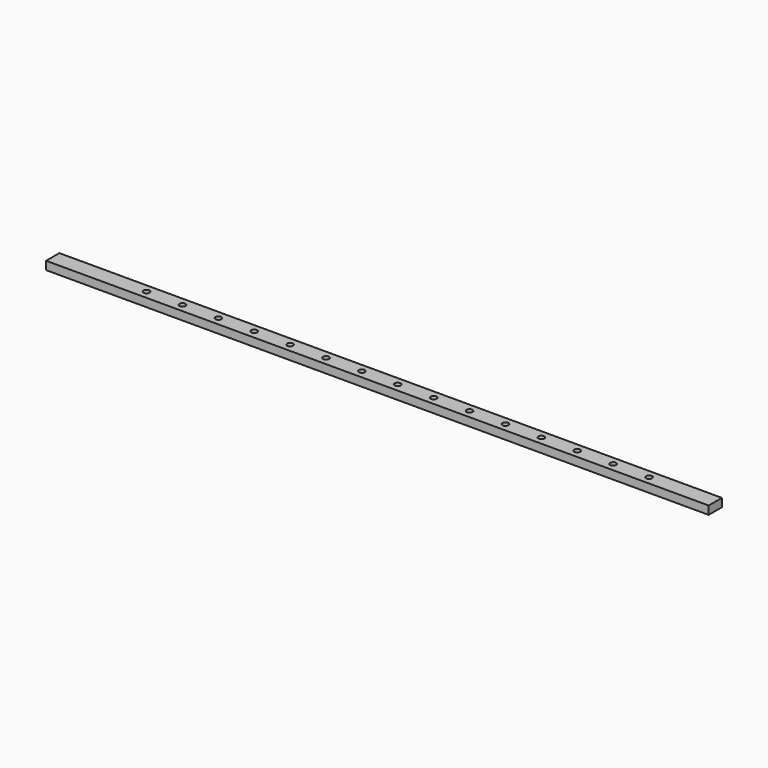
from build123d import *

# Parameters (mm, degrees)
F0_W     = 19.05
F0_H     = 9.525
F1_DEPTH = 381
F3_D     = 6.9088


with BuildPart() as f1:
    # F0 (on Right) → F1 (new body, symmetric)
    with BuildSketch(Plane.YZ):
        Rectangle(F0_W, F0_H)
    extrude(amount=F1_DEPTH, both=True)

    # F3 (through all)
    with Locations(Plane.XY.offset(4.7625)):
        with Locations((304.8, 0), (263.525, 0), (222.25, 0), (180.975, 0), (139.7, 0), (98.425, 0), (57.15, 0), (15.875, 0), (-25.4, 0), (-66.675, 0), (-107.95, 0), (-149.225, 0), (-190.5, 0), (-231.775, 0), (-273.05, 0)):
            Hole(F3_D / 2)


solid = f1.part
